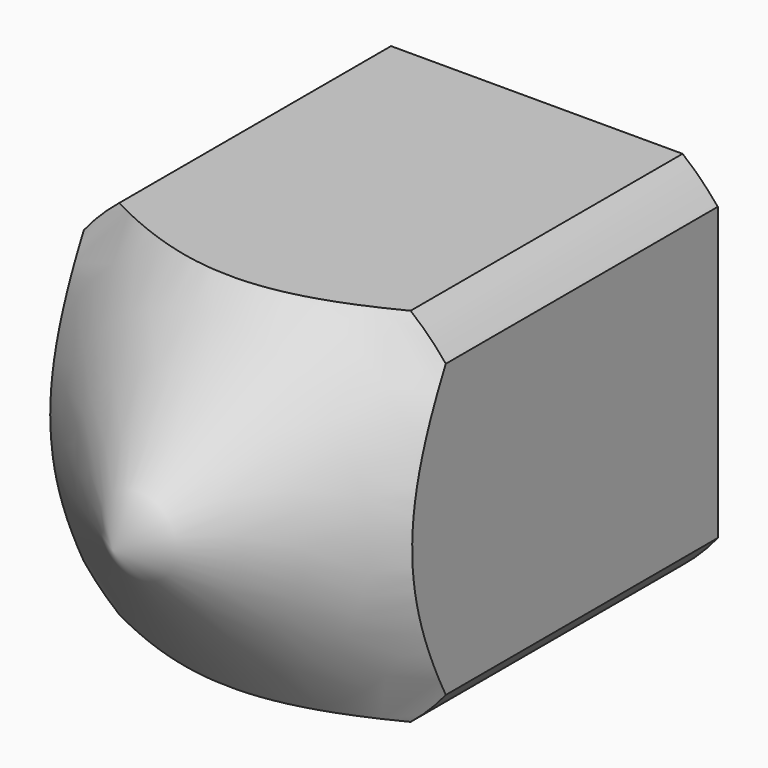
from build123d import *

# Parameters (mm, degrees)
F2_W     = 83.072104
F2_H     = 76.524554
F2_W_2   = 36.83
F2_H_2   = 36.83
F3_DEPTH = 81.534


with BuildPart() as f1:
    # F0 (on Top) → F1 (revolve)
    with BuildSketch(Plane.XY):
        with BuildLine():
            Line((-5.780561, 67.105159), (-5.780561, 53.927373))
            Line((-5.780561, 53.927373), (-23.645375, 53.927373))
            Line((-23.645375, 53.927373), (-23.645375, 19.336753))
            Line((-23.645375, 19.336753), (0, 0))
            Line((0, 0), (0, 67.846416))
            Line((0, 67.846416), (0, 72.587589))
            ThreePointArc((0, 72.587589), (-4.06846, 71.088622), (-5.780561, 67.105159))
        make_face()
    revolve(axis=Axis((0, 33.923208, 0), (0, -1, 0)))

    # F2 (on Front) → F3 (cut)
    with BuildSketch(Plane.XZ):
        Rectangle(F2_W, F2_H)
        Rectangle(F2_W_2, F2_H_2, mode=Mode.SUBTRACT)
    extrude(amount=-F3_DEPTH, mode=Mode.SUBTRACT)


solid = f1.part
